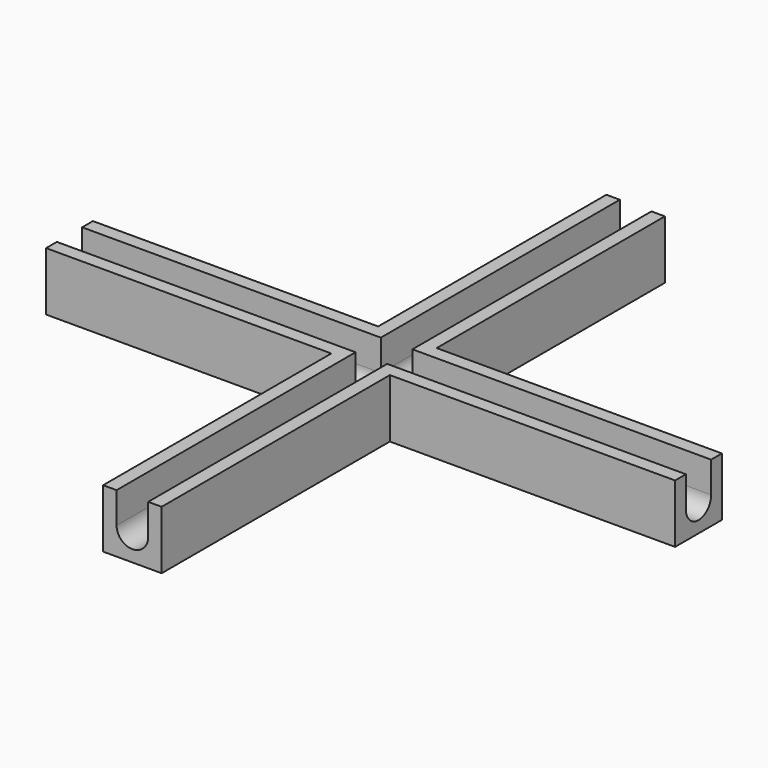
from build123d import *

# Parameters (mm, degrees)
PAD_DEPTH       = 10
POCKET_DEPTH    = 107.501
POCKET001_DEPTH = 53.75
POCKET002_DEPTH = 53.75


with BuildPart() as part:
    # Sketch → Pad (new body)
    with BuildSketch(Plane.XY):
        Polygon((-5, 53.75), (-5, 5), (-53.75, 5), (-53.75, -5), (-5, -5), (-5, -53.75), (5, -53.75), (5, -5), (53.75, -5), (53.75, 5), (5, 5), (5, 53.75), align=None)
    extrude(amount=PAD_DEPTH)

    # Sketch001 → Pocket (cut, through all)
    with BuildSketch(Plane(origin=(0, 53.75, 0), x_dir=(-1, 0, 0), z_dir=(0, 1, 0))):
        with BuildLine():
            ThreePointArc((-2.7, 4.699986), (7e-06, 2), (2.7, 4.7))
            Line((2.7, 10), (2.7, 4.7))
            Line((2.7, 10), (-2.7, 10))
            Line((-2.7, 4.699986), (-2.7, 10))
        make_face()
    extrude(amount=-POCKET_DEPTH, mode=Mode.SUBTRACT)

    # Sketch002 → Pocket001 (cut)
    with BuildSketch(Plane.YZ.offset(53.75)):
        with BuildLine():
            ThreePointArc((-2.7, 4.7), (0, 2), (2.7, 4.700001))
            Line((2.7, 10), (2.7, 4.700001))
            Line((2.7, 10), (-2.7, 10))
            Line((-2.7, 4.7), (-2.7, 10))
        make_face()
    extrude(amount=-POCKET001_DEPTH, mode=Mode.SUBTRACT)

    # Sketch003 → Pocket002 (cut)
    with BuildSketch(Plane(origin=(-53.75, 0, 0), x_dir=(0, -1, 0), z_dir=(-1, 0, 0))):
        with BuildLine():
            ThreePointArc((-2.7, 4.7), (0, 2), (2.7, 4.7))
            Line((2.7, 10), (2.7, 4.7))
            Line((-2.7, 10), (2.7, 10))
            Line((-2.7, 4.7), (-2.7, 10))
        make_face()
    extrude(amount=-POCKET002_DEPTH, mode=Mode.SUBTRACT)


solid = part.part
